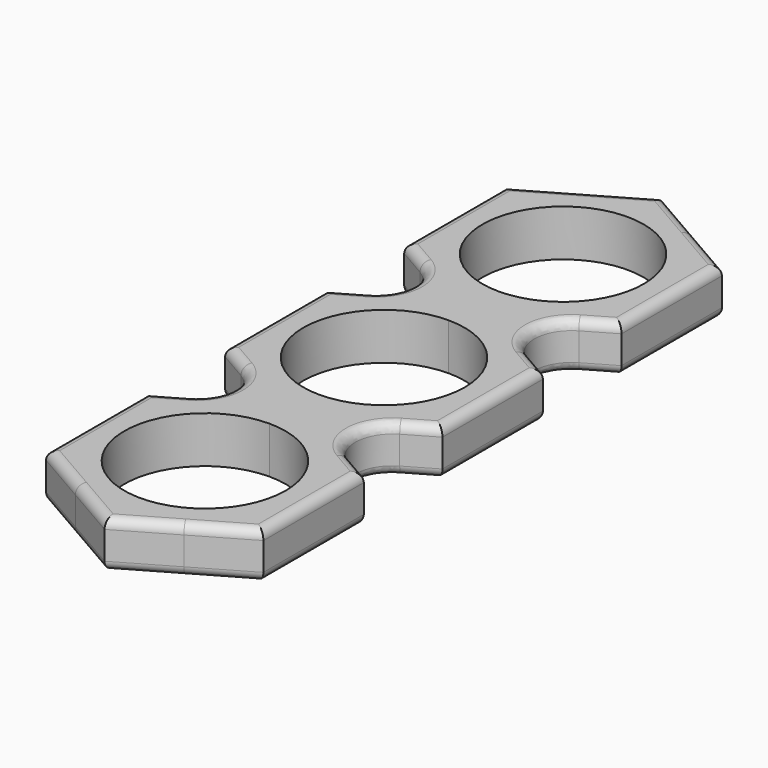
from build123d import *

# Parameters (mm, degrees)
F1_DEPTH = 6.35
F2_R     = 5.08
F3_R     = 1.27
F4_R     = 1.27


with BuildPart() as f1:
    # F0 (on Top) → F1 (new body)
    with BuildSketch(Plane.XY):
        with BuildLine():
            ThreePointArc((0, 10.9855), (7.7679215447, 7.7679215447), (10.9855, 0))
            ThreePointArc((10.9855, 0), (7.7679215447, -7.7679215447), (0, -10.9855))
            Line((0, -10.9855), (0, -13.3956281844))
            Line((0, -13.3956281844), (2.1521016455, -14.6381446487))
            ThreePointArc((2.1521016455, -14.6381446487), (4.8613218287, -13.9740606242), (7.3977499102, -12.8132789135))
            ThreePointArc((7.3977499102, -12.8132789135), (12.8132788358, -7.3977500449), (14.7955, 0))
            ThreePointArc((14.7955, 0), (12.8132788358, 7.3977500449), (7.3977499102, 12.8132789135))
            ThreePointArc((7.3977499102, 12.8132789135), (4.8613218287, 13.9740606242), (2.1521016455, 14.6381446487))
            Line((2.1521016455, 14.6381446487), (0, 13.3956281844))
            Line((0, 13.3956281844), (0, 10.9855))
        make_face()
        with BuildLine():
            ThreePointArc((0, -10.9855), (-10.9855, 0), (0, 10.9855))
            Line((0, 10.9855), (0, 13.3956281844))
            Line((0, 13.3956281844), (-2.1521016455, 14.6381446487))
            ThreePointArc((-2.1521016455, 14.6381446487), (-4.8613217481, 13.9740606522), (-7.3977497624, 12.8132789988))
            ThreePointArc((-7.3977497624, 12.8132789988), (-12.8132787931, 7.3977501188), (-14.7955, 0))
            ThreePointArc((-14.7955, 0), (-12.8132788987, -7.3977499359), (-7.3977501283, -12.8132787876))
            ThreePointArc((-7.3977501283, -12.8132787876), (-4.8613219476, -13.9740605828), (-2.1521016455, -14.6381446487))
            Line((-2.1521016455, -14.6381446487), (0, -13.3956281844))
            Line((0, -13.3956281844), (0, -10.9855))
        make_face()
        with BuildLine():
            ThreePointArc((-2.1521016455, 14.6381446487), (-1.0789233289, 14.7561087249), (0, 14.7955))
            Line((0, 14.7955), (0, 15.6845))
            ThreePointArc((0, 15.6845), (-1.0789233289, 15.7238912751), (-2.1521016455, 15.8418553513))
            Line((-2.1521016455, 15.8418553513), (-3.1945456927, 15.24))
            Line((-3.1945456927, 15.24), (-2.1521016455, 14.6381446487))
        make_face()
        with BuildLine():
            Line((0, 15.6845), (0, 14.7955))
            ThreePointArc((0, 14.7955), (1.0789233289, 14.7561087249), (2.1521016455, 14.6381446487))
            Line((2.1521016455, 14.6381446487), (3.1945456927, 15.24))
            Line((3.1945456927, 15.24), (2.1521016455, 15.8418553513))
            ThreePointArc((2.1521016455, 15.8418553513), (1.0789233289, 15.7238912751), (0, 15.6845))
        make_face()
        with BuildLine():
            Line((3.1945456927, 15.24), (2.1521016455, 14.6381446487))
            ThreePointArc((2.1521016455, 14.6381446487), (4.8613218287, 13.9740606242), (7.3977499102, 12.8132789135))
            Line((7.3977499102, 12.8132789135), (3.1945456927, 15.24))
        make_face()
        with BuildLine():
            ThreePointArc((-7.3977497624, 12.8132789988), (-4.8613217481, 13.9740606522), (-2.1521016455, 14.6381446487))
            Line((-2.1521016455, 14.6381446487), (-3.1945456927, 15.24))
            Line((-3.1945456927, 15.24), (-7.3977497624, 12.8132789988))
        make_face()
        with BuildLine():
            ThreePointArc((2.1521016455, -14.6381446487), (1.0789233289, -14.7561087249), (0, -14.7955))
            Line((0, -14.7955), (0, -15.6845))
            ThreePointArc((0, -15.6845), (1.0789233289, -15.7238912751), (2.1521016455, -15.8418553513))
            Line((2.1521016455, -15.8418553513), (3.1945456927, -15.24))
            Line((3.1945456927, -15.24), (2.1521016455, -14.6381446487))
        make_face()
        with BuildLine():
            Line((0, -15.6845), (0, -14.7955))
            ThreePointArc((0, -14.7955), (-1.0789233289, -14.7561087249), (-2.1521016455, -14.6381446487))
            Line((-2.1521016455, -14.6381446487), (-3.1945456927, -15.24))
            Line((-3.1945456927, -15.24), (-2.1521016455, -15.8418553513))
            ThreePointArc((-2.1521016455, -15.8418553513), (-1.0789233289, -15.7238912751), (0, -15.6845))
        make_face()
        with BuildLine():
            Line((-3.1945456927, -15.24), (-2.1521016455, -14.6381446487))
            ThreePointArc((-2.1521016455, -14.6381446487), (-4.8613219476, -13.9740605828), (-7.3977501283, -12.8132787876))
            Line((-7.3977501283, -12.8132787876), (-3.1945456927, -15.24))
        make_face()
        with BuildLine():
            ThreePointArc((7.3977499102, -12.8132789135), (4.8613218287, -13.9740606242), (2.1521016455, -14.6381446487))
            Line((2.1521016455, -14.6381446487), (3.1945456927, -15.24))
            Line((3.1945456927, -15.24), (7.3977499102, -12.8132789135))
        make_face()
        with BuildLine():
            Line((14.7955, 8.5421859078), (7.3977499102, 12.8132789135))
            ThreePointArc((7.3977499102, 12.8132789135), (12.8132788358, 7.3977500449), (14.7955, 0))
            Line((14.7955, 0), (14.7955, 8.5421859078))
        make_face()
        with BuildLine():
            Line((2.1521016455, 15.8418553513), (3.1945456927, 15.24))
            Line((3.1945456927, 15.24), (7.3977499102, 17.6667210865))
            ThreePointArc((7.3977499102, 17.6667210865), (4.8613218287, 16.5059393758), (2.1521016455, 15.8418553513))
        make_face()
        with BuildLine():
            ThreePointArc((-14.7955, 0), (-12.8132787931, 7.3977501188), (-7.3977497624, 12.8132789988))
            Line((-7.3977497624, 12.8132789988), (-14.7955, 8.5421859078))
            Line((-14.7955, 8.5421859078), (-14.7955, 0))
        make_face()
        with BuildLine():
            Line((-7.3977499882, 17.6667211315), (-3.1945456927, 15.24))
            Line((-3.1945456927, 15.24), (-2.1521016455, 15.8418553513))
            ThreePointArc((-2.1521016455, 15.8418553513), (-4.8613218712, 16.5059393906), (-7.3977499882, 17.6667211315))
        make_face()
        with BuildLine():
            Line((-14.7955, -8.5421859078), (-7.3977501283, -12.8132787876))
            ThreePointArc((-7.3977501283, -12.8132787876), (-12.8132788987, -7.3977499359), (-14.7955, 0))
            Line((-14.7955, 0), (-14.7955, -8.5421859078))
        make_face()
        with BuildLine():
            Line((-2.1521016455, -15.8418553513), (-3.1945456927, -15.24))
            Line((-3.1945456927, -15.24), (-7.3977500016, -17.6667211392))
            ThreePointArc((-7.3977500016, -17.6667211392), (-4.8613218785, -16.5059393932), (-2.1521016455, -15.8418553513))
        make_face()
        with BuildLine():
            ThreePointArc((14.7955, 0), (12.8132788358, -7.3977500449), (7.3977499102, -12.8132789135))
            Line((7.3977499102, -12.8132789135), (14.7955, -8.5421859078))
            Line((14.7955, -8.5421859078), (14.7955, 0))
        make_face()
        with BuildLine():
            Line((7.3977501843, -17.6667212447), (3.1945456927, -15.24))
            Line((3.1945456927, -15.24), (2.1521016455, -15.8418553513))
            ThreePointArc((2.1521016455, -15.8418553513), (4.8613219781, -16.5059394278), (7.3977501843, -17.6667212447))
        make_face()
        with BuildLine():
            ThreePointArc((-7.3977499882, 17.6667211315), (-4.8613218712, 16.5059393906), (-2.1521016455, 15.8418553513))
            Line((-2.1521016455, 15.8418553513), (0, 17.0843718156))
            Line((0, 17.0843718156), (2.1521016455, 15.8418553513))
            ThreePointArc((2.1521016455, 15.8418553513), (4.8613218287, 16.5059393758), (7.3977499102, 17.6667210865))
            ThreePointArc((7.3977499102, 17.6667210865), (12.8132788358, 23.0822499551), (14.7955, 30.48))
            ThreePointArc((14.7955, 30.48), (12.8132787931, 37.8777501188), (7.3977497624, 43.2932789988))
            ThreePointArc((7.3977497624, 43.2932789988), (1.381e-07, 45.2755), (-7.3977495233, 43.2932791369))
            ThreePointArc((-7.3977495233, 43.2932791369), (-12.8132787241, 37.8777502383), (-14.7955, 30.48))
            ThreePointArc((-14.7955, 30.48), (-12.8132788583, 23.0822499941), (-7.3977499882, 17.6667211315))
        make_face()
        with BuildLine():
            ThreePointArc((10.9855, 30.48), (7.7679215447, 22.7120784553), (0, 19.4945))
            ThreePointArc((0, 19.4945), (-7.7679215447, 38.2479215447), (10.9855, 30.48))
        make_face(mode=Mode.SUBTRACT)
        with BuildLine():
            ThreePointArc((14.7955, 30.48), (12.8132788358, 23.0822499551), (7.3977499102, 17.6667210865))
            Line((7.3977499102, 17.6667210865), (14.7955, 21.9378140922))
            Line((14.7955, 21.9378140922), (14.7955, 30.48))
        make_face()
        with BuildLine():
            Line((-14.7955, 21.9378140922), (-7.3977499882, 17.6667211315))
            ThreePointArc((-7.3977499882, 17.6667211315), (-12.8132788583, 23.0822499941), (-14.7955, 30.48))
            Line((-14.7955, 30.48), (-14.7955, 21.9378140922))
        make_face()
        with BuildLine():
            ThreePointArc((7.3977501843, -17.6667212447), (4.8613219781, -16.5059394278), (2.1521016455, -15.8418553513))
            Line((2.1521016455, -15.8418553513), (0, -17.0843718156))
            Line((0, -17.0843718156), (-2.1521016455, -15.8418553513))
            ThreePointArc((-2.1521016455, -15.8418553513), (-4.8613218785, -16.5059393932), (-7.3977500016, -17.6667211392))
            ThreePointArc((-7.3977500016, -17.6667211392), (-12.8132788621, -23.0822500008), (-14.7955, -30.48))
            ThreePointArc((-14.7955, -30.48), (-12.8132788784, -37.877749971), (-7.397750058, -43.2932788282))
            ThreePointArc((-7.397750058, -43.2932788282), (1.24e-08, -45.2755), (7.3977500796, -43.2932788157))
            ThreePointArc((7.3977500796, -43.2932788157), (12.8132788847, -37.8777499602), (14.7955, -30.48))
            ThreePointArc((14.7955, -30.48), (12.8132789149, -23.0822500921), (7.3977501843, -17.6667212447))
        make_face()
        with BuildLine():
            ThreePointArc((10.9855, -30.48), (-7.7679215447, -38.2479215447), (0, -19.4945))
            ThreePointArc((0, -19.4945), (7.7679215447, -22.7120784553), (10.9855, -30.48))
        make_face(mode=Mode.SUBTRACT)
        with BuildLine():
            ThreePointArc((-14.7955, -30.48), (-12.8132788621, -23.0822500008), (-7.3977500016, -17.6667211392))
            Line((-7.3977500016, -17.6667211392), (-14.7955, -21.9378140922))
            Line((-14.7955, -21.9378140922), (-14.7955, -30.48))
        make_face()
        with BuildLine():
            Line((14.7955, -21.9378140922), (7.3977501843, -17.6667212447))
            ThreePointArc((7.3977501843, -17.6667212447), (12.8132789149, -23.0822500921), (14.7955, -30.48))
            Line((14.7955, -30.48), (14.7955, -21.9378140922))
        make_face()
        with BuildLine():
            ThreePointArc((7.3977497624, 43.2932789988), (12.8132787931, 37.8777501188), (14.7955, 30.48))
            Line((14.7955, 30.48), (14.7955, 39.0221859078))
            Line((14.7955, 39.0221859078), (7.3977497624, 43.2932789988))
        make_face()
        with BuildLine():
            Line((-14.7955, 39.0221859078), (-14.7955, 30.48))
            ThreePointArc((-14.7955, 30.48), (-12.8132787241, 37.8777502383), (-7.3977495233, 43.2932791369))
            Line((-7.3977495233, 43.2932791369), (-14.7955, 39.0221859078))
        make_face()
        with BuildLine():
            ThreePointArc((-7.397750058, -43.2932788282), (-12.8132788784, -37.877749971), (-14.7955, -30.48))
            Line((-14.7955, -30.48), (-14.7955, -39.0221859078))
            Line((-14.7955, -39.0221859078), (-7.397750058, -43.2932788282))
        make_face()
        with BuildLine():
            Line((14.7955, -39.0221859078), (14.7955, -30.48))
            ThreePointArc((14.7955, -30.48), (12.8132788847, -37.8777499602), (7.3977500796, -43.2932788157))
            Line((7.3977500796, -43.2932788157), (14.7955, -39.0221859078))
        make_face()
        with BuildLine():
            ThreePointArc((-7.3977495233, 43.2932791369), (1.381e-07, 45.2755), (7.3977497624, 43.2932789988))
            Line((7.3977497624, 43.2932789988), (0, 47.5643718156))
            Line((0, 47.5643718156), (-7.3977495233, 43.2932791369))
        make_face()
        with BuildLine():
            ThreePointArc((7.3977500796, -43.2932788157), (1.24e-08, -45.2755), (-7.397750058, -43.2932788282))
            Line((-7.397750058, -43.2932788282), (0, -47.5643718156))
            Line((0, -47.5643718156), (7.3977500796, -43.2932788157))
        make_face()
        with BuildLine():
            ThreePointArc((0, 10.9855), (7.7679215447, 7.7679215447), (10.9855, 0))
            ThreePointArc((10.9855, 0), (7.7679215447, -7.7679215447), (0, -10.9855))
            Line((0, -10.9855), (0, -13.3956281844))
            Line((0, -13.3956281844), (2.1521016455, -14.6381446487))
            ThreePointArc((2.1521016455, -14.6381446487), (4.8613218287, -13.9740606242), (7.3977499102, -12.8132789135))
            ThreePointArc((7.3977499102, -12.8132789135), (12.8132788358, -7.3977500449), (14.7955, 0))
            ThreePointArc((14.7955, 0), (12.8132788358, 7.3977500449), (7.3977499102, 12.8132789135))
            ThreePointArc((7.3977499102, 12.8132789135), (4.8613218287, 13.9740606242), (2.1521016455, 14.6381446487))
            Line((2.1521016455, 14.6381446487), (0, 13.3956281844))
            Line((0, 13.3956281844), (0, 10.9855))
        make_face()
        with BuildLine():
            ThreePointArc((0, -10.9855), (-10.9855, 0), (0, 10.9855))
            Line((0, 10.9855), (0, 13.3956281844))
            Line((0, 13.3956281844), (-2.1521016455, 14.6381446487))
            ThreePointArc((-2.1521016455, 14.6381446487), (-4.8613217481, 13.9740606522), (-7.3977497624, 12.8132789988))
            ThreePointArc((-7.3977497624, 12.8132789988), (-12.8132787931, 7.3977501188), (-14.7955, 0))
            ThreePointArc((-14.7955, 0), (-12.8132788987, -7.3977499359), (-7.3977501283, -12.8132787876))
            ThreePointArc((-7.3977501283, -12.8132787876), (-4.8613219476, -13.9740605828), (-2.1521016455, -14.6381446487))
            Line((-2.1521016455, -14.6381446487), (0, -13.3956281844))
            Line((0, -13.3956281844), (0, -10.9855))
        make_face()
        with BuildLine():
            ThreePointArc((-2.1521016455, 15.8418553513), (-1.0789233289, 15.7238912751), (0, 15.6845))
            Line((0, 15.6845), (0, 17.0843718156))
            Line((0, 17.0843718156), (-2.1521016455, 15.8418553513))
        make_face()
        with BuildLine():
            Line((0, 17.0843718156), (0, 15.6845))
            ThreePointArc((0, 15.6845), (1.0789233289, 15.7238912751), (2.1521016455, 15.8418553513))
            Line((2.1521016455, 15.8418553513), (0, 17.0843718156))
        make_face()
        with BuildLine():
            Line((-2.1521016455, 14.6381446487), (0, 13.3956281844))
            Line((0, 13.3956281844), (0, 14.7955))
            ThreePointArc((0, 14.7955), (-1.0789233289, 14.7561087249), (-2.1521016455, 14.6381446487))
        make_face()
        with BuildLine():
            Line((0, 14.7955), (0, 13.3956281844))
            Line((0, 13.3956281844), (2.1521016455, 14.6381446487))
            ThreePointArc((2.1521016455, 14.6381446487), (1.0789233289, 14.7561087249), (0, 14.7955))
        make_face()
        with BuildLine():
            ThreePointArc((2.1521016455, -15.8418553513), (1.0789233289, -15.7238912751), (0, -15.6845))
            Line((0, -15.6845), (0, -17.0843718156))
            Line((0, -17.0843718156), (2.1521016455, -15.8418553513))
        make_face()
        with BuildLine():
            Line((2.1521016455, -14.6381446487), (0, -13.3956281844))
            Line((0, -13.3956281844), (0, -14.7955))
            ThreePointArc((0, -14.7955), (1.0789233289, -14.7561087249), (2.1521016455, -14.6381446487))
        make_face()
        with BuildLine():
            Line((0, -14.7955), (0, -13.3956281844))
            Line((0, -13.3956281844), (-2.1521016455, -14.6381446487))
            ThreePointArc((-2.1521016455, -14.6381446487), (-1.0789233289, -14.7561087249), (0, -14.7955))
        make_face()
        with BuildLine():
            Line((0, -17.0843718156), (0, -15.6845))
            ThreePointArc((0, -15.6845), (-1.0789233289, -15.7238912751), (-2.1521016455, -15.8418553513))
            Line((-2.1521016455, -15.8418553513), (0, -17.0843718156))
        make_face()
    extrude(amount=F1_DEPTH)

    # F2
    f2_edges = [f1.edges().sort_by_distance(p)[0] for p in [
        (-3.194546, 15.24, 3.175),
        (-3.194546, -15.24, 3.175),
        (3.194546, -15.24, 3.175),
        (3.194546, 15.24, 3.175),
    ]]
    fillet(f2_edges, radius=F2_R)

    # F3
    f3_edges = [f1.edges().sort_by_distance(p)[0] for p in [
        (-14.7955, 30.48, 6.35),
        (-7.39775, 43.293279, 6.35),
        (7.39775, 43.293279, 6.35),
        (14.7955, 30.48, 6.35),
        (12.805023, 20.788612, 6.35),
        (-12.805023, 20.788612, 6.35),
        (12.805023, 9.691388, 6.35),
        (14.7955, 0, 6.35),
        (12.805023, -9.691388, 6.35),
        (12.805023, -20.788612, 6.35),
        (14.7955, -30.48, 6.35),
        (7.39775, -43.293279, 6.35),
        (-7.39775, -43.293279, 6.35),
        (-14.7955, -30.48, 6.35),
        (-12.805023, -20.788612, 6.35),
        (-12.805023, -9.691388, 6.35),
        (-14.7955, 0, 6.35),
        (-12.805023, 9.691388, 6.35),
    ]]
    fillet(f3_edges, radius=F3_R)

    # F4
    f4_edges = [f1.edges().sort_by_distance(p)[0] for p in [
        (-14.7955, 30.48, 0),
        (-7.39775, 43.293279, 0),
        (7.39775, 43.293279, 0),
        (14.7955, 30.48, 0),
        (12.805023, 20.788612, 0),
        (-12.805023, 20.788612, 0),
        (-12.805023, 9.691388, 0),
        (12.805023, 9.691388, 0),
        (14.7955, 0, 0),
        (12.805023, -9.691388, 0),
        (-12.805023, -9.691388, 0),
        (-14.7955, 0, 0),
        (-12.805023, -20.788612, 0),
        (12.805023, -20.788612, 0),
        (14.7955, -30.48, 0),
        (7.39775, -43.293279, 0),
        (-7.39775, -43.293279, 0),
        (-14.7955, -30.48, 0),
    ]]
    fillet(f4_edges, radius=F4_R)


solid = f1.part
